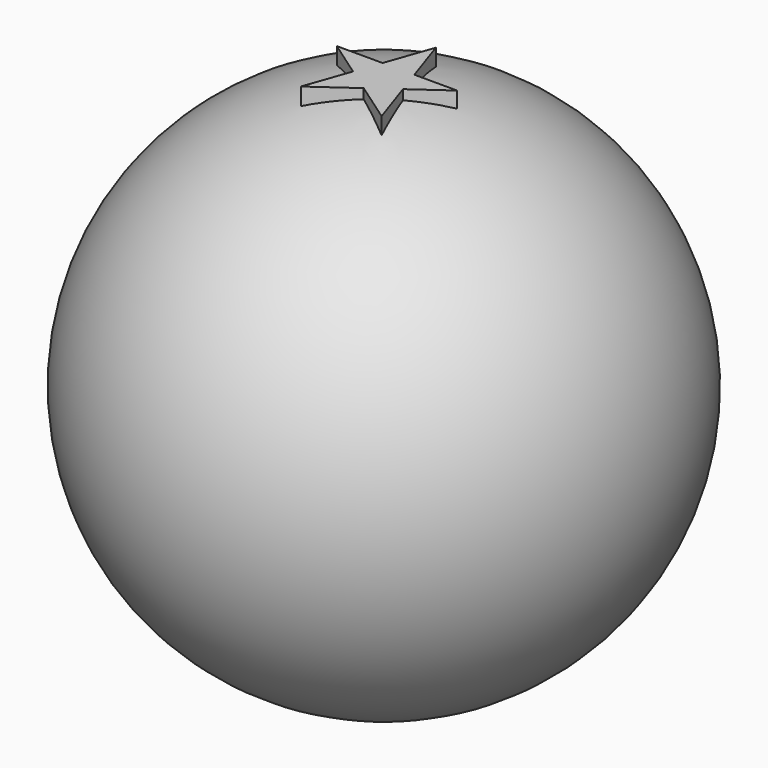
from build123d import *

# Parameters (mm, degrees)
F3_DEPTH = 80


with BuildPart() as f1:
    # F0 (on Front) → F1 (revolve)
    with BuildSketch(Plane.XZ):
        with BuildLine():
            Line((-10.224335, 0), (0, 0))
            Line((0, 0), (0, 78.671216))
            ThreePointArc((0, 78.671216), (-39.666413, 43.826376), (-10.224335, 0))
        make_face()
    revolve(axis=Axis((0, 0, 39.335608), (0, 0, 1)))

    # F2 (on Top) → F3 (join)
    with BuildSketch(Plane.XY):
        Polygon((2.363934, 2.864877), (0, 9.900123), (-2.479884, 2.864877), (-9.453024, 2.864877), (-3.856096, -1.039333), (-6.290752, -7.94627), (-0.188083, -3.598002), (5.981675, -7.901796), (3.62309, -0.882468), (8.882381, 2.864877), align=None)
    extrude(amount=F3_DEPTH)


solid = f1.part
